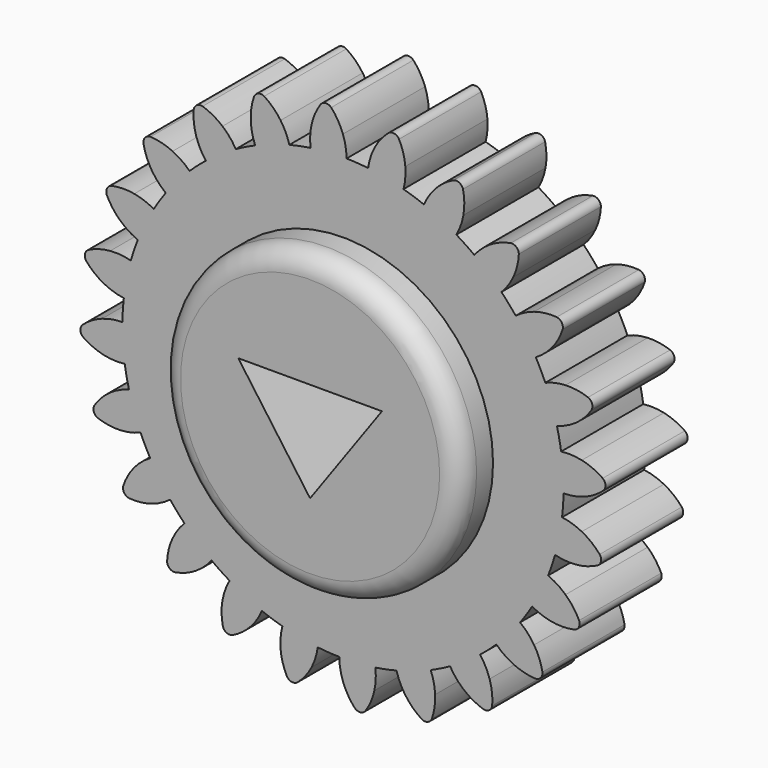
from build123d import *

# Parameters (mm, degrees)
F0_R     = 36.555138
F1_DEPTH = 25
F2_COUNT = 24
F3_DEPTH = 35
F4_R     = 5


with BuildPart() as f1:
    # F0 (on Front) → F1 (new body)
    with BuildSketch(Plane.XZ):
        with BuildLine():
            ThreePointArc((-7.884268, 53.13929), (-35.088425, -40.678597), (53.721, 0))
            ThreePointArc((53.721, 0), (38.296609, 37.673805), (0.880747, 53.71378))
            ThreePointArc((0.880747, 53.71378), (-3.513522, 53.605979), (-7.884268, 53.13929))
        make_face()
        Circle(F0_R, mode=Mode.SUBTRACT)
        with BuildLine():
            ThreePointArc((-7.884268, 53.13929), (-3.513522, 53.605979), (0.880747, 53.71378))
            ThreePointArc((0.880747, 53.71378), (0.657327, 56.232413), (0, 58.674))
            ThreePointArc((0, 58.674), (-1.197244, 61.193417), (-2.856441, 63.435721))
            ThreePointArc((-2.856441, 63.435721), (-4.190695, 63.937643), (-5.44802, 63.26586))
            ThreePointArc((-5.44802, 63.26586), (-6.800342, 60.826171), (-7.658494, 58.172036))
            ThreePointArc((-7.658494, 58.172036), (-7.991507, 55.665538), (-7.884268, 53.13929))
        make_face()
    extrude(amount=F1_DEPTH)



with BuildPart() as f2_1:
    # F2: instance of F1
    add(f1.part.rotate(Axis((0, 0, 0), (0, 1, 0)), 1 * 360 / F2_COUNT))


with BuildPart() as f2_2:
    # F2: instance of F1
    add(f1.part.rotate(Axis((0, 0, 0), (0, 1, 0)), 2 * 360 / F2_COUNT))


with BuildPart() as f2_3:
    # F2: instance of F1
    add(f1.part.rotate(Axis((0, 0, 0), (0, 1, 0)), 3 * 360 / F2_COUNT))


with BuildPart() as f2_4:
    # F2: instance of F1
    add(f1.part.rotate(Axis((0, 0, 0), (0, 1, 0)), 4 * 360 / F2_COUNT))


with BuildPart() as f2_5:
    # F2: instance of F1
    add(f1.part.rotate(Axis((0, 0, 0), (0, 1, 0)), 5 * 360 / F2_COUNT))


with BuildPart() as f2_6:
    # F2: instance of F1
    add(f1.part.rotate(Axis((0, 0, 0), (0, 1, 0)), 6 * 360 / F2_COUNT))


with BuildPart() as f2_7:
    # F2: instance of F1
    add(f1.part.rotate(Axis((0, 0, 0), (0, 1, 0)), 7 * 360 / F2_COUNT))


with BuildPart() as f2_8:
    # F2: instance of F1
    add(f1.part.rotate(Axis((0, 0, 0), (0, 1, 0)), 8 * 360 / F2_COUNT))


with BuildPart() as f2_9:
    # F2: instance of F1
    add(f1.part.rotate(Axis((0, 0, 0), (0, 1, 0)), 9 * 360 / F2_COUNT))


with BuildPart() as f2_10:
    # F2: instance of F1
    add(f1.part.rotate(Axis((0, 0, 0), (0, 1, 0)), 10 * 360 / F2_COUNT))


with BuildPart() as f2_11:
    # F2: instance of F1
    add(f1.part.rotate(Axis((0, 0, 0), (0, 1, 0)), 11 * 360 / F2_COUNT))


with BuildPart() as f2_12:
    # F2: instance of F1
    add(f1.part.rotate(Axis((0, 0, 0), (0, 1, 0)), 12 * 360 / F2_COUNT))


with BuildPart() as f2_13:
    # F2: instance of F1
    add(f1.part.rotate(Axis((0, 0, 0), (0, 1, 0)), 13 * 360 / F2_COUNT))


with BuildPart() as f2_14:
    # F2: instance of F1
    add(f1.part.rotate(Axis((0, 0, 0), (0, 1, 0)), 14 * 360 / F2_COUNT))


with BuildPart() as f2_15:
    # F2: instance of F1
    add(f1.part.rotate(Axis((0, 0, 0), (0, 1, 0)), 15 * 360 / F2_COUNT))


with BuildPart() as f2_16:
    # F2: instance of F1
    add(f1.part.rotate(Axis((0, 0, 0), (0, 1, 0)), 16 * 360 / F2_COUNT))


with BuildPart() as f2_17:
    # F2: instance of F1
    add(f1.part.rotate(Axis((0, 0, 0), (0, 1, 0)), 17 * 360 / F2_COUNT))


with BuildPart() as f2_18:
    # F2: instance of F1
    add(f1.part.rotate(Axis((0, 0, 0), (0, 1, 0)), 18 * 360 / F2_COUNT))


with BuildPart() as f2_19:
    # F2: instance of F1
    add(f1.part.rotate(Axis((0, 0, 0), (0, 1, 0)), 19 * 360 / F2_COUNT))


with BuildPart() as f2_20:
    # F2: instance of F1
    add(f1.part.rotate(Axis((0, 0, 0), (0, 1, 0)), 20 * 360 / F2_COUNT))


with BuildPart() as f2_21:
    # F2: instance of F1
    add(f1.part.rotate(Axis((0, 0, 0), (0, 1, 0)), 21 * 360 / F2_COUNT))


with BuildPart() as f2_22:
    # F2: instance of F1
    add(f1.part.rotate(Axis((0, 0, 0), (0, 1, 0)), 22 * 360 / F2_COUNT))


with BuildPart() as f2_23:
    # F2: instance of F1
    add(f1.part.rotate(Axis((0, 0, 0), (0, 1, 0)), 23 * 360 / F2_COUNT))


with BuildPart() as f1_1:
    add(f1.part)

    add(f2_1.part)  # F3 merges F2_1

    add(f2_2.part)  # F3 merges F2_2

    add(f2_3.part)  # F3 merges F2_3

    add(f2_4.part)  # F3 merges F2_4

    add(f2_5.part)  # F3 merges F2_5

    add(f2_6.part)  # F3 merges F2_6

    add(f2_7.part)  # F3 merges F2_7

    add(f2_8.part)  # F3 merges F2_8

    add(f2_9.part)  # F3 merges F2_9

    add(f2_10.part)  # F3 merges F2_10

    add(f2_11.part)  # F3 merges F2_11

    add(f2_12.part)  # F3 merges F2_12

    add(f2_13.part)  # F3 merges F2_13

    add(f2_14.part)  # F3 merges F2_14

    add(f2_15.part)  # F3 merges F2_15

    add(f2_16.part)  # F3 merges F2_16

    add(f2_17.part)  # F3 merges F2_17

    add(f2_18.part)  # F3 merges F2_18

    add(f2_19.part)  # F3 merges F2_19

    add(f2_20.part)  # F3 merges F2_20

    add(f2_21.part)  # F3 merges F2_21

    add(f2_22.part)  # F3 merges F2_22

    add(f2_23.part)  # F3 merges F2_23
    # F0 (on Front) → F3 (join)
    with BuildSketch(Plane.XZ):
        Circle(F0_R)
        Polygon((0, -15.372813), (-17.5, 8.994173), (17.5, 8.994173), align=None, mode=Mode.SUBTRACT)
    extrude(amount=F3_DEPTH)

    # F4
    f4_edges = [f1_1.edges().sort_by_distance(p)[0] for p in [
        (-36.555138, -35, 0),
    ]]
    fillet(f4_edges, radius=F4_R)


solid = f1_1.part
